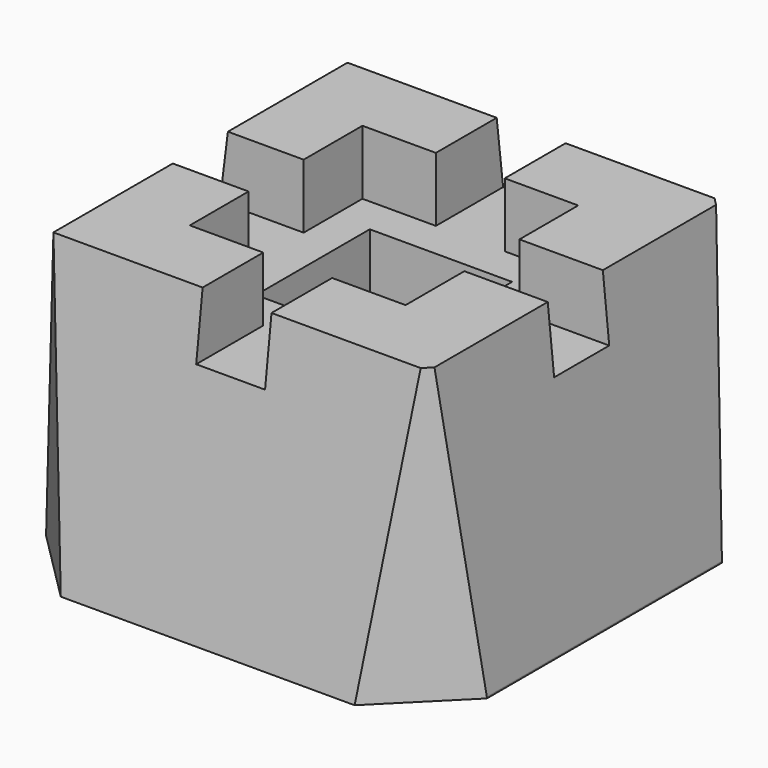
from build123d import *

# Parameters (mm, degrees)
F0_W      = 304.8
F0_H      = 304.8
F1_DEPTH  = 203.2
F2_W      = 149.225
F2_H      = 149.225
F3_DEPTH  = 44.45
F4_W      = 47.625
F4_H      = 77.7875
F4_W_2    = 77.7875
F4_H_2    = 47.625
F5_DEPTH  = 44.45
F6_SIZE   = 50.8
F7_R      = 33.9315428176
F8_DEPTH  = 158.751
F9_W      = 98.425
F9_H      = 98.425
F9_R      = 33.9315428176
F10_DEPTH = 76.2
F12_DEPTH = 304.801
F14_DEPTH = 304.801


with BuildPart() as f1:
    # F0 (on Top) → F1 (new body)
    with BuildSketch(Plane.XY):
        with Locations((152.4, 152.4)):
            Rectangle(F0_W, F0_H)
    extrude(amount=F1_DEPTH)

    # F2 (on face) → F3 (cut)
    with BuildSketch(Plane.XY.offset(203.2)):
        with Locations((152.4, 152.4)):
            Rectangle(F2_W, F2_H)
    extrude(amount=-F3_DEPTH, mode=Mode.SUBTRACT)

    # F4 (on face) → F5 (cut)
    with BuildSketch(Plane.XY.offset(203.2)):
        with Locations((152.4, 265.90625)):
            Rectangle(F4_W, F4_H)
        with Locations((152.4, 38.89375)):
            Rectangle(F4_W, F4_H)
        with Locations((265.90625, 152.4)):
            Rectangle(F4_W_2, F4_H_2)
        with Locations((38.89375, 152.4)):
            Rectangle(F4_W_2, F4_H_2)
    extrude(amount=-F5_DEPTH, mode=Mode.SUBTRACT)

    # F6
    f6_edges = [f1.edges().sort_by_distance(p)[0] for p in [
        (304.8, 0, 101.6),
        (304.8, 304.8, 101.6),
        (0, 0, 101.6),
        (0, 304.8, 101.6),
    ]]
    chamfer(f6_edges, length=F6_SIZE)

    # F7 (on face) → F8 (cut, through all)
    with BuildSketch(Plane.XY.offset(158.75)):
        with Locations((152.4, 152.4)):
            Circle(F7_R)
    extrude(amount=-F8_DEPTH, mode=Mode.SUBTRACT)

    # F9 (on face) → F10 (cut)
    with BuildSketch(Plane.XY.offset(158.75)):
        with Locations((152.4, 152.4)):
            Rectangle(F9_W, F9_H)
        with Locations((152.4, 152.4)):
            Circle(F9_R, mode=Mode.SUBTRACT)
    extrude(amount=-F10_DEPTH, mode=Mode.SUBTRACT)

    # F11 (on face) → F12 (cut, through all)
    with BuildSketch(Plane.XZ):
        Polygon((0, 203.2701924012), (0, 0), (25.4, 203.2701924012), align=None)
        Polygon((284.6523523331, 203.4087479115), (304.8951923847, 0), (304.8951923847, 203.4087479115), align=None)
    extrude(amount=-F12_DEPTH, mode=Mode.SUBTRACT)

    # F13 (on face) → F14 (cut, through all)
    with BuildSketch(Plane.YZ.offset(304.8)):
        Polygon((0, 203.302398324), (0, 0), (25.4, 203.302398324), align=None)
        Polygon((279.5212098122, 203.6561071873), (304.9212098122, 0), (304.9212098122, 203.6561071873), align=None)
    extrude(amount=-F14_DEPTH, mode=Mode.SUBTRACT)


solid = f1.part
